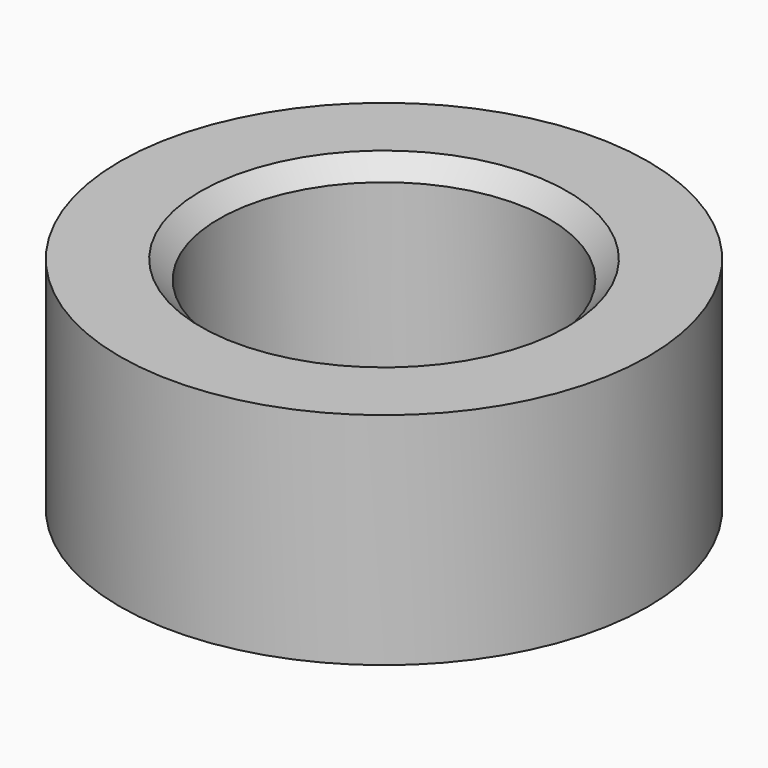
from build123d import *

# Parameters (mm, degrees)
F0_R     = 7.2
F1_DEPTH = 6
F2_R     = 4.5
F3_DEPTH = 6.001
F4_SIZE2 = 0.5
F4_SIZE  = 0.5


with BuildPart() as f1:
    # F0 (on Top) → F1 (new body)
    with BuildSketch(Plane.XY):
        Circle(F0_R)
    extrude(amount=F1_DEPTH)

    # F2 (on face) → F3 (cut, through all)
    with BuildSketch(Plane.XY.offset(6)):
        Circle(F2_R)
    extrude(amount=-F3_DEPTH, mode=Mode.SUBTRACT)

    # F4
    f4_edges = [f1.edges().sort_by_distance(p)[0] for p in [
        (-4.5, 0, 6),
        (4.5, 0, 3),
        (-4.5, 0, 0),
    ]]
    chamfer(f4_edges, length=F4_SIZE, length2=F4_SIZE2)


solid = f1.part
